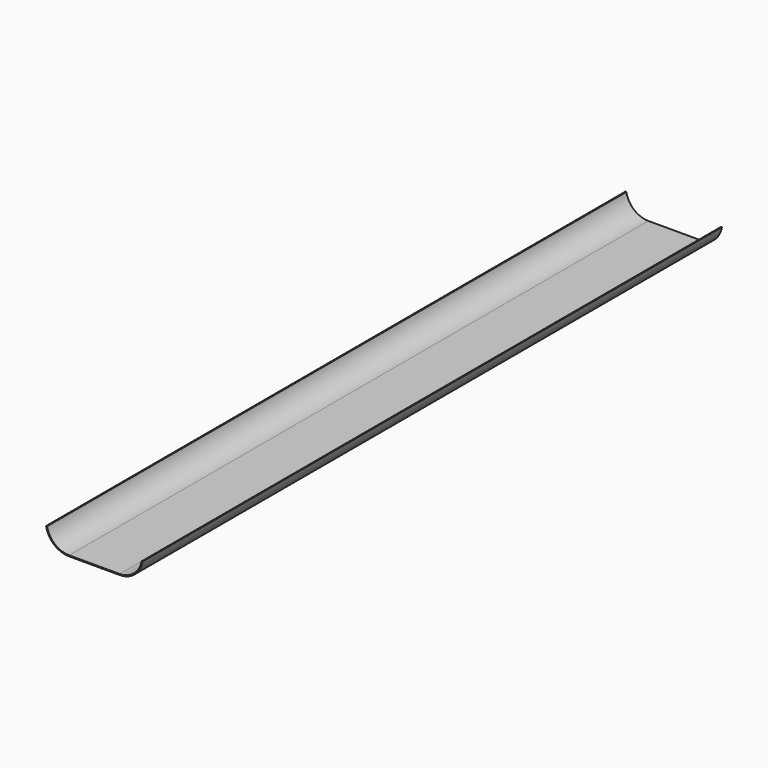
from build123d import *

# Parameters (mm, degrees)
F1_DEPTH = 1500


with BuildPart() as f1:
    # F0 (on Front) → F1 (new body)
    with BuildSketch(Plane.XZ):
        with BuildLine():
            Line((-52.329856, 0), (0, 0))
            Line((0, 0), (0, 2))
            Line((0, 2), (-52.329856, 2))
            ThreePointArc((-52.329856, 2), (-82.023376, 12.743672), (-97.967784, 40))
            Line((-97.967784, 40), (-100, 40))
            ThreePointArc((-100, 40), (-83.444333, 11.324743), (-52.329856, 0))
        make_face()
    extrude(amount=F1_DEPTH)

    # F2: F1 across plane


with BuildPart() as f1_1:
    add(f1.part)
    add(f1.part.mirror(Plane.YZ))


solid = f1_1.part
